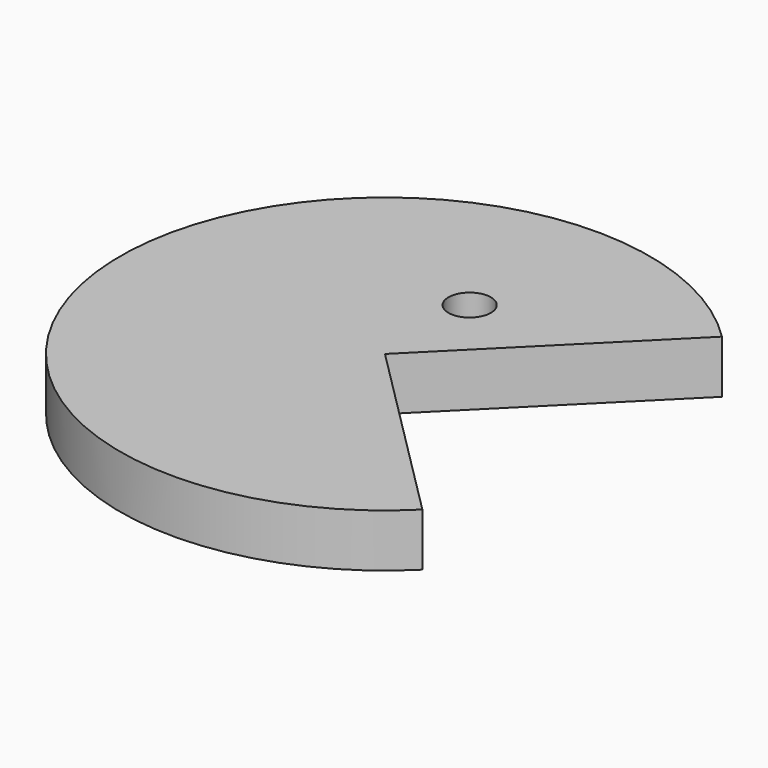
from build123d import *

# Parameters (mm, degrees)
CYLINDER001_R            = 2
CYLINDER001_DEPTH        = 10
CYLINDER_W               = 25
CYLINDER_H               = 5
CYLINDER_ANGLE           = 270
CYLINDER_PLACEMENT_ANGLE = 45


with BuildPart() as obj1:
    # Cylinder001 → Cylinder001 (new body)
    with BuildSketch(Plane(origin=(0, 10, -2), x_dir=(1, 0, 0), z_dir=(0, 0, 1))):
        Circle(CYLINDER001_R)
    extrude(amount=CYLINDER001_DEPTH)


with BuildPart() as obj2:
    # Cylinder → Cylinder (revolve)
    with BuildSketch(Plane.XZ):
        with Locations((12.5, 2.5)):
            Rectangle(CYLINDER_W, CYLINDER_H)
    revolve(axis=Axis((0, 0, 0), (0, 0, 1)), revolution_arc=CYLINDER_ANGLE)


with BuildPart() as obj2_1:
    # Cylinder placement: moved
    add(obj2.part.rotate(Axis((0, 0, 0), (0, 0, 1)), CYLINDER_PLACEMENT_ANGLE))

    # Cut: cut obj1
    add(obj1.part, mode=Mode.SUBTRACT)


solid = obj2_1.part
